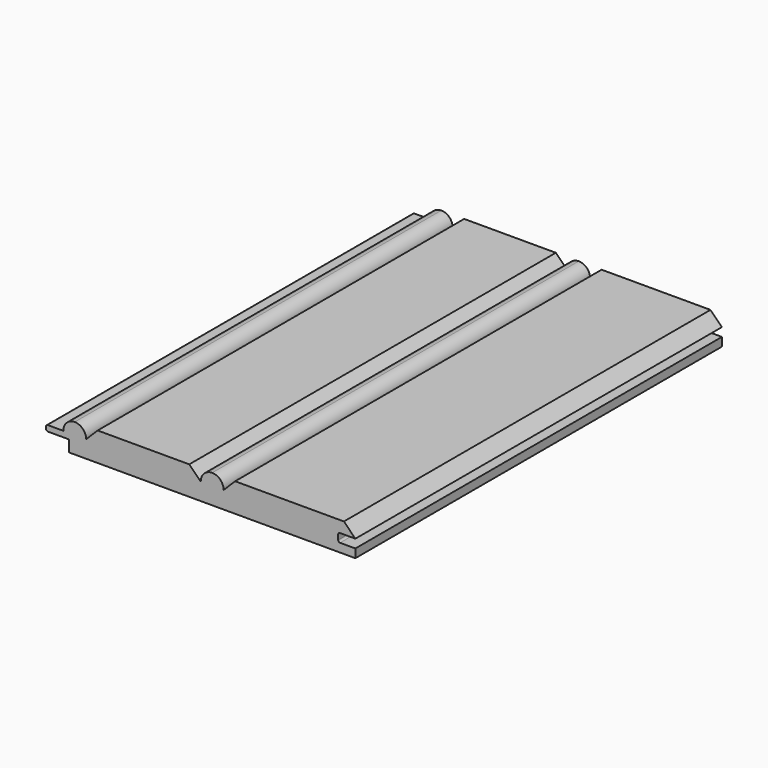
from build123d import *

# Parameters (mm, degrees)
F1_DEPTH = 127


with BuildPart() as f1:
    # F0 (on Front) → F1 (new body)
    with BuildSketch(Plane.XZ):
        with BuildLine():
            Line((-36.5125, -0.79375), (-36.5125, -3.96875))
            Line((-36.5125, -3.96875), (42.8625, -3.96875))
            Line((42.8625, -3.96875), (42.8625, -1.5875))
            Line((42.8625, -1.5875), (38.608, -1.5875))
            ThreePointArc((38.608, -1.5875), (38.24879, -1.43871), (38.1, -1.0795))
            Line((38.1, -1.0795), (38.1, 0.28575))
            ThreePointArc((38.1, 0.28575), (38.24879, 0.64496), (38.608, 0.79375))
            Line((38.608, 0.79375), (42.8625, 0.79375))
            Line((42.8625, 0.79375), (39.6875, 3.96875))
            Line((39.6875, 3.96875), (9.525, 3.96875))
            Line((9.525, 3.96875), (6.35, 0.79375))
            ThreePointArc((6.35, 0.79375), (5.420064, 3.038814), (3.175, 3.96875))
            ThreePointArc((3.175, 3.96875), (0.929936, 3.038814), (0, 0.79375))
            Line((0, 0.79375), (-3.175, 3.96875))
            Line((-3.175, 3.96875), (-28.575, 3.96875))
            Line((-28.575, 3.96875), (-31.75, 0.79375))
            ThreePointArc((-31.75, 0.79375), (-32.679936, 3.038814), (-34.925, 3.96875))
            ThreePointArc((-34.925, 3.96875), (-37.170064, 3.038814), (-38.1, 0.79375))
            Line((-38.1, 0.79375), (-42.3545, 0.79375))
            ThreePointArc((-42.3545, 0.79375), (-42.71371, 0.64496), (-42.8625, 0.28575))
            Line((-42.8625, 0.28575), (-42.8625, -0.28575))
            ThreePointArc((-42.8625, -0.28575), (-42.71371, -0.64496), (-42.3545, -0.79375))
            Line((-42.3545, -0.79375), (-36.5125, -0.79375))
        make_face()
    extrude(amount=-F1_DEPTH)


solid = f1.part
